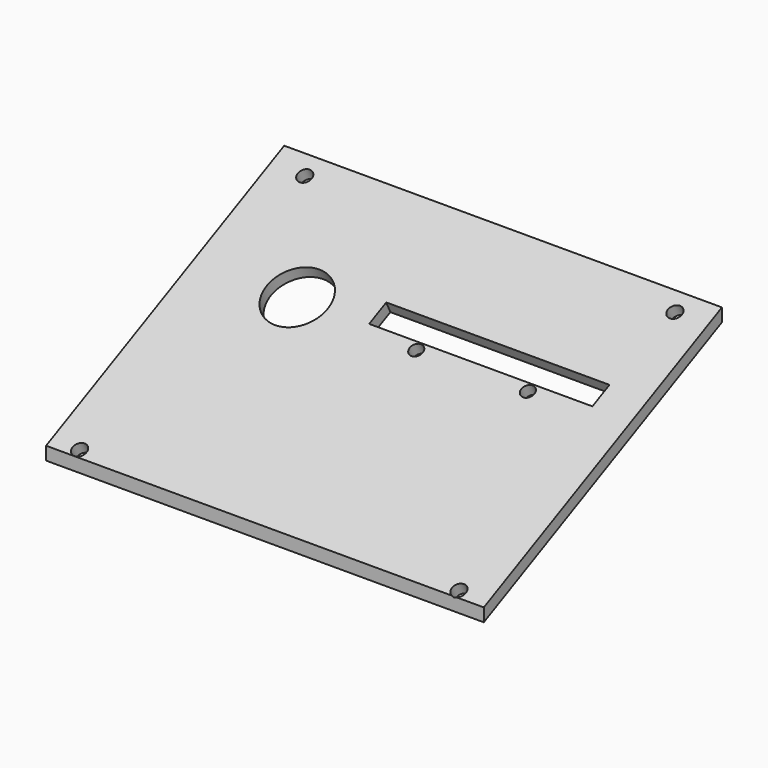
from build123d import *

# Parameters (mm, degrees)
SKETCH009_AS_DRAWN_R                      = 1.5
SKETCH009_AS_DRAWN_W                      = 51
SKETCH009_AS_DRAWN_H                      = 5.41
EXTRUDE010_DEPTH                          = 5
EXTRUDE010_ONTO_SKETCH009_PLACEMENT_ANGLE = 25.682094
SKETCH008_AS_DRAWN_R                      = 7
EXTRUDE009_DEPTH                          = 30
EXTRUDE009_ONTO_SKETCH008_PLACEMENT_ANGLE = 25.682094
SKETCH007_AS_DRAWN_R                      = 1.6
EXTRUDE008_DEPTH                          = 5
EXTRUDE008_ONTO_SKETCH007_PLACEMENT_ANGLE = 25.682094
EXTRUDE007_DEPTH                          = 100


with BuildPart() as extrude010:
    # Sketch009 as drawn → Extrude010 (new, symmetric)
    with BuildSketch(Plane.XY):
        with Locations((52, -10.02)):
            Circle(SKETCH009_AS_DRAWN_R)
        with Locations((77.5, -10.02)):
            Circle(SKETCH009_AS_DRAWN_R)
        with Locations((65.5, -5.585)):
            Rectangle(SKETCH009_AS_DRAWN_W, SKETCH009_AS_DRAWN_H)
    extrude(amount=EXTRUDE010_DEPTH, both=True)


with BuildPart() as extrude010_1:
    # Extrude010 onto Sketch009 placement: moved
    add(extrude010.part.moved(Location((0, -15.714438, 32.678321))).rotate(Axis((0, -15.714438, 32.678321), (1, 0, 0)), EXTRUDE010_ONTO_SKETCH009_PLACEMENT_ANGLE))


with BuildPart() as extrude009:
    # Sketch008 as drawn → Extrude009 (new)
    with BuildSketch(Plane.XY):
        with Locations((23.559155, -8.28634)):
            Circle(SKETCH008_AS_DRAWN_R)
    extrude(amount=-EXTRUDE009_DEPTH)


with BuildPart() as extrude009_1:
    # Extrude009 onto Sketch008 placement: moved
    add(extrude009.part.moved(Location((0, -15.714438, 32.678321))).rotate(Axis((0, -15.714438, 32.678321), (1, 0, 0)), EXTRUDE009_ONTO_SKETCH008_PLACEMENT_ANGLE))


with BuildPart() as extrude008:
    # Sketch007 as drawn → Extrude008 (new, symmetric)
    with BuildSketch(Plane.XY):
        with Locations((92.35981, 15.963995)):
            Circle(SKETCH007_AS_DRAWN_R)
        with Locations((7.880468, 15.845796)):
            Circle(SKETCH007_AS_DRAWN_R)
        with Locations((6.488905, -53.57334)):
            Circle(SKETCH007_AS_DRAWN_R)
        with Locations((93.218208, -53.681344)):
            Circle(SKETCH007_AS_DRAWN_R)
    extrude(amount=EXTRUDE008_DEPTH, both=True)


with BuildPart() as extrude008_1:
    # Extrude008 onto Sketch007 placement: moved
    add(extrude008.part.moved(Location((0, -15.714438, 32.678321))).rotate(Axis((0, -15.714438, 32.678321), (1, 0, 0)), EXTRUDE008_ONTO_SKETCH007_PLACEMENT_ANGLE))


with BuildPart() as tapa:
    # Sketch006 → Extrude007 (new body)
    with BuildSketch(Plane.YZ):
        Polygon((-65.452812, 5.76), (2.547146, 38.46), (2.547146, 41.46), (-65.452812, 8.76), align=None)
    extrude(amount=EXTRUDE007_DEPTH)

    # Cut004: cut Extrude008
    add(extrude008_1.part, mode=Mode.SUBTRACT)

    # Cut005: cut Extrude009
    add(extrude009_1.part, mode=Mode.SUBTRACT)

    # Cut006: cut Extrude010
    add(extrude010_1.part, mode=Mode.SUBTRACT)


solid = tapa.part
